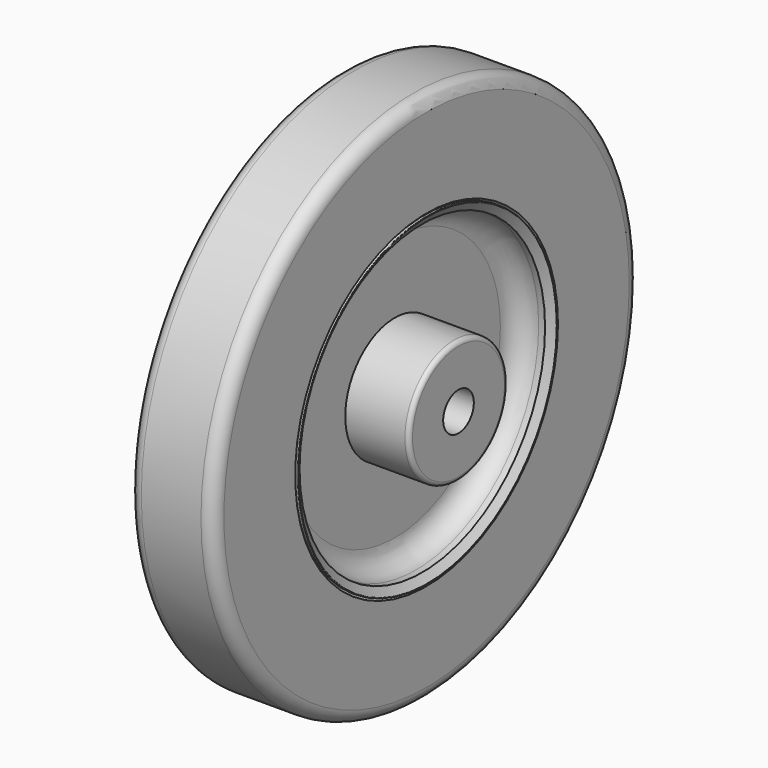
from build123d import *


with BuildPart() as f1:
    # F0 (on Top) → F1 (revolve)
    with BuildSketch(Plane.XY):
        with BuildLine():
            Line((-8.141916, 37.5), (-8.656982, 38.05317))
            Line((-8.656982, 38.05317), (-9.271576, 38.05317))
            ThreePointArc((-9.271576, 38.05317), (-9.359533, 38.000746), (-9.35527, 37.89844))
            Line((-9.35527, 37.89844), (-8.141916, 36.042939))
            Line((-8.141916, 36.042939), (-6.641916, 36.042939))
            ThreePointArc((-6.641916, 36.042939), (-3.106382, 34.578472), (-1.641916, 31.042939))
            Line((-1.641916, 31.042939), (-1.641916, 14.5))
            Line((-1.641916, 14.5), (-15.641916, 14.5))
            ThreePointArc((-15.641916, 14.5), (-16.349022, 14.207107), (-16.641916, 13.5))
            Line((-16.641916, 13.5), (-16.641916, 4.5))
            Line((-16.641916, 4.5), (0.858084, 4.5))
            Line((0.858084, 4.5), (18.358084, 4.5))
            Line((18.358084, 4.5), (18.358084, 13.5))
            ThreePointArc((18.358084, 13.5), (18.065191, 14.207107), (17.358084, 14.5))
            Line((17.358084, 14.5), (3.358084, 14.5))
            Line((3.358084, 14.5), (3.358084, 31.042939))
            ThreePointArc((3.358084, 31.042939), (4.82255, 34.578472), (8.358084, 36.042939))
            Line((8.358084, 36.042939), (9.858084, 36.042939))
            Line((9.858084, 36.042939), (11.071439, 37.89844))
            ThreePointArc((11.071439, 37.89844), (11.075702, 38.000746), (10.987745, 38.05317))
            Line((10.987745, 38.05317), (10.373151, 38.05317))
            Line((10.373151, 38.05317), (9.858084, 37.5))
            Line((9.858084, 37.5), (0.858084, 37.5))
            Line((0.858084, 37.5), (-8.141916, 37.5))
        make_face()
        with BuildLine():
            Line((7.858084, 62.5), (0.858084, 62.5))
            Line((0.858084, 62.5), (-6.141916, 62.5))
            ThreePointArc((-6.141916, 62.5), (-8.263236, 61.62132), (-9.141916, 59.5))
            Line((-9.141916, 59.5), (-9.141916, 38.573977))
            Line((-9.141916, 38.573977), (-8.656982, 38.05317))
            Line((-8.656982, 38.05317), (-8.141916, 37.5))
            Line((-8.141916, 37.5), (0.858084, 37.5))
            Line((0.858084, 37.5), (9.858084, 37.5))
            Line((9.858084, 37.5), (10.373151, 38.05317))
            Line((10.373151, 38.05317), (10.858084, 38.573977))
            Line((10.858084, 38.573977), (10.858084, 59.5))
            ThreePointArc((10.858084, 59.5), (9.979405, 61.62132), (7.858084, 62.5))
        make_face()
    revolve(axis=Axis((0.858084, 0, 0), (1, 0, 0)))


solid = f1.part
